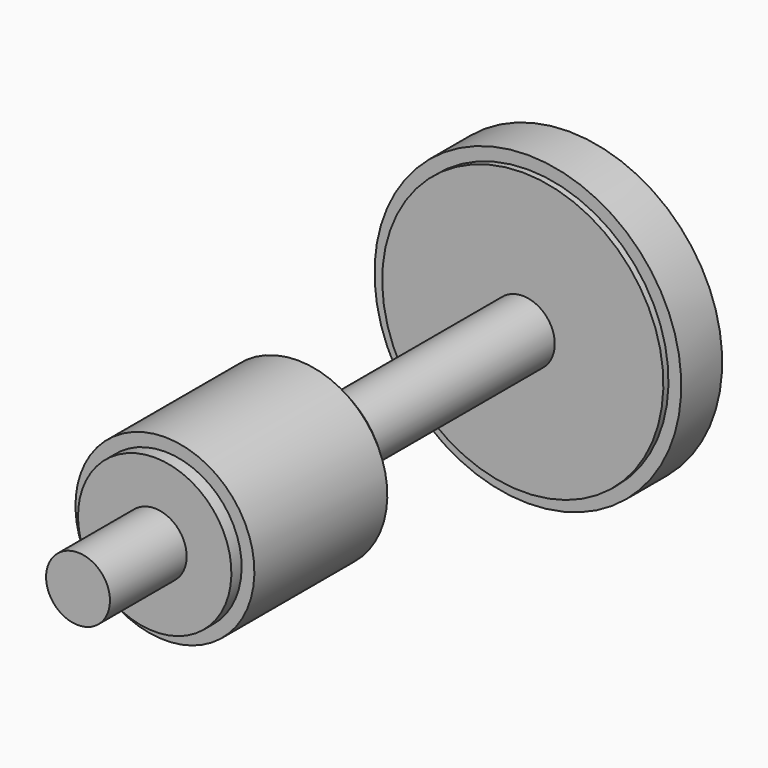
from build123d import *

# Parameters (mm, degrees)
F2_W = 0.2
F2_H = 0.2
F4_W = 0.1
F4_H = 0.2


with BuildPart() as f1:
    # F0 (on Right) → F1 (revolve)
    with BuildSketch(Plane.YZ):
        Polygon((-1.5, 0.5), (-1.5, 0), (8.4, 0), (8.4, 0.5), (8.2, 0.5), (8.2, 2.4), (7.2, 2.4), (7.2, 0.5), (3, 0.5), (3, 1.4), (0, 1.4), (0, 0.5), align=None)
    revolve(axis=Axis((0, 3.45, 0), (0, -1, 0)))

    # F2 (on Right) → F3 (revolve, cut)
    with BuildSketch(Plane.YZ):
        with Locations((2.9, 1.3)):
            Rectangle(F2_W, F2_H)
        with Locations((0.1, 1.3)):
            Rectangle(F2_W, F2_H)
    revolve(axis=Axis((0, 3.45, 0), (0, -1, 0)), mode=Mode.SUBTRACT)

    # F4 (on Right) → F5 (revolve, cut)
    with BuildSketch(Plane.YZ):
        with Locations((8.15, 2.3)):
            Rectangle(F4_W, F4_H)
        with Locations((7.25, 2.3)):
            Rectangle(F4_W, F4_H)
    revolve(axis=Axis((0, 3.45, 0), (0, -1, 0)), mode=Mode.SUBTRACT)


solid = f1.part
